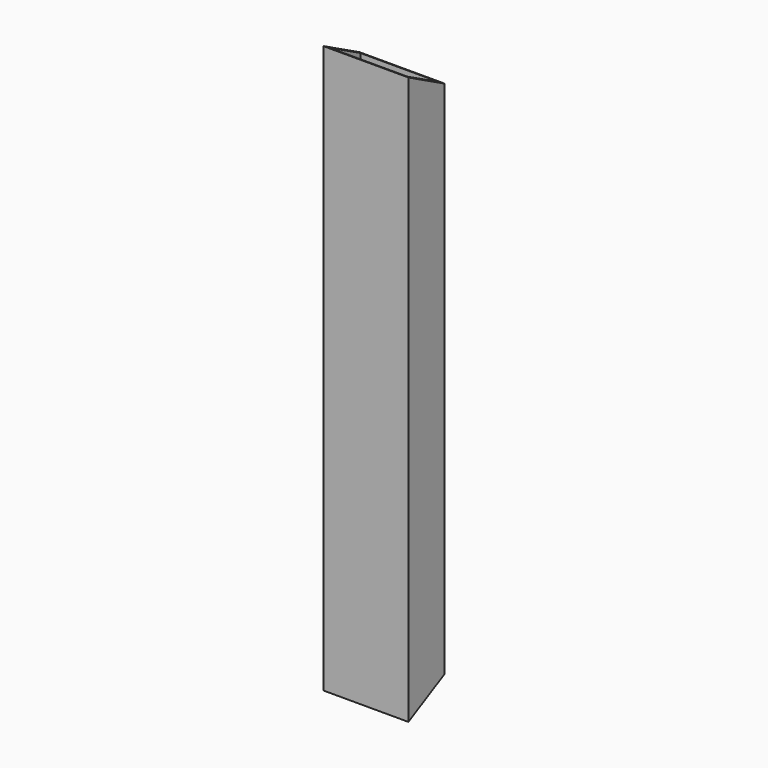
from build123d import *

# Parameters (mm, degrees)
F0_W     = 75
F0_H     = 40
F0_W_2   = 69
F0_H_2   = 34
F1_DEPTH = 500
F3_DEPTH = 75


with BuildPart() as f1:
    # F0 (on Top) → F1 (new body)
    with BuildSketch(Plane.XY):
        with Locations((-37.5, 20)):
            Rectangle(F0_W, F0_H)
        with Locations((-37.5, 20)):
            Rectangle(F0_W_2, F0_H_2, mode=Mode.SUBTRACT)
    extrude(amount=F1_DEPTH)

    # F2 (on face) → F3 (cut, through all)
    with BuildSketch(Plane.YZ):
        Polygon((40, 500), (0, 500), (40, 478.999531), align=None)
        Polygon((40, 21.000469), (0, 0), (40, 0), align=None)
    extrude(amount=-F3_DEPTH, mode=Mode.SUBTRACT)


solid = f1.part
